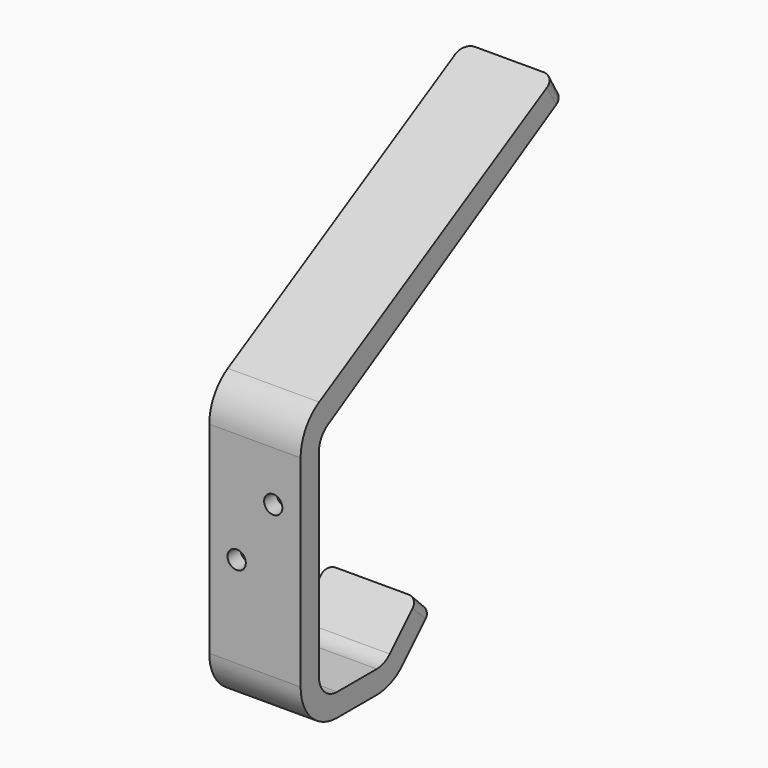
from build123d import *

# Parameters (mm, degrees)
F1_DEPTH       = 20
F2_R           = 10
F3_R           = 5
F4_R           = 5
F5_R           = 2
F6_R           = 2.5
F8_D           = 4
F8_CSINK_D     = 7
F8_CSINK_ANGLE = 90


with BuildPart() as f1:
    # F0 (on Right) → F1 (new body)
    with BuildSketch(Plane.YZ):
        Polygon((0, 60), (0, 0), (25, 0), (35.606602, 10.606602), (32.071068, 14.142136), (22.928932, 5), (5, 5), (5, 56.105373), (72.130849, 95.084579), (69.620171, 99.408524), align=None)
    extrude(amount=F1_DEPTH)

    # F2
    f2_edges = [f1.edges().sort_by_distance(p)[0] for p in [
        (10, 0, 60),
        (10, 0, 0),
        (10, 25, 0),
    ]]
    fillet(f2_edges, radius=F2_R)

    # F3
    f3_edges = [f1.edges().sort_by_distance(p)[0] for p in [
        (10, 5, 56.105373),
        (10, 5, 5),
    ]]
    fillet(f3_edges, radius=F3_R)

    # F4
    f4_edges = [f1.edges().sort_by_distance(p)[0] for p in [
        (10, 22.928932, 5),
    ]]
    fillet(f4_edges, radius=F4_R)

    # F5
    f5_edges = [f1.edges().sort_by_distance(p)[0] for p in [
        (20, 33.838835, 12.374369),
        (0, 33.838835, 12.374369),
    ]]
    fillet(f5_edges, radius=F5_R)

    # F6
    f6_edges = [f1.edges().sort_by_distance(p)[0] for p in [
        (20, 70.87551, 97.246551),
        (0, 70.87551, 97.246551),
    ]]
    fillet(f6_edges, radius=F6_R)

    # F8 (through all)
    with Locations(Plane(origin=(0, 5, 0), x_dir=(-1, 0, 0), z_dir=(0, 1, 0))):
        with Locations((-6, 30), (-14, 43.226842)):
            CounterSinkHole(F8_D / 2, F8_CSINK_D / 2, counter_sink_angle=F8_CSINK_ANGLE)


solid = f1.part
